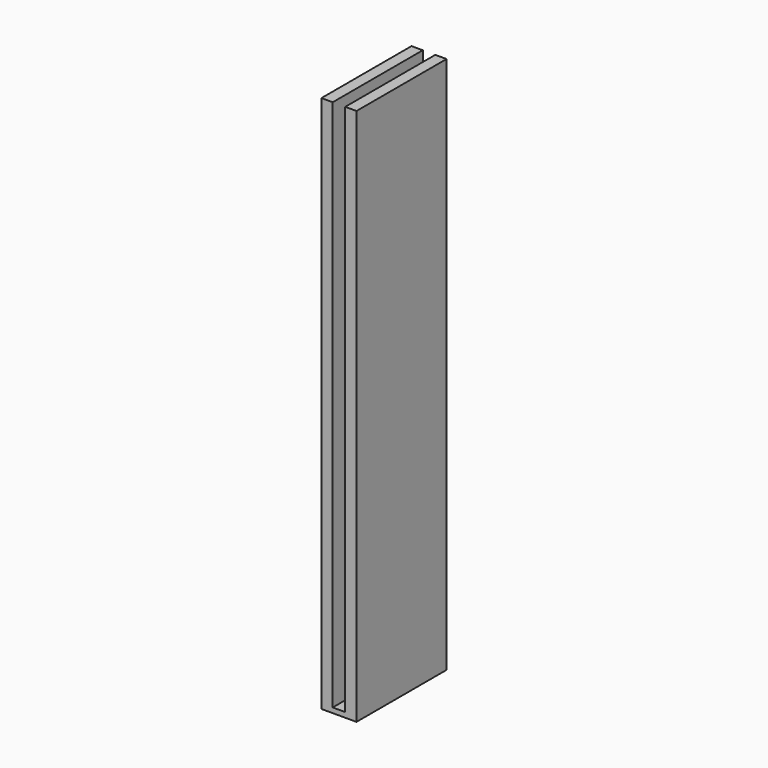
from build123d import *

# Parameters (mm, degrees)
F0_W          = 45
F0_H          = 215
F1_DEPTH      = 7
F1_DEPTH_BACK = 7
F2_W          = 5
F2_H          = 213
F3_DEPTH      = 70
F3_DEPTH_BACK = 25


with BuildPart() as f1:
    # F0 (on Right) → F1 (new body, two sides)
    with BuildSketch(Plane.YZ) as f1_sk:
        with Locations((8.797029, 77.318066)):
            Rectangle(F0_W, F0_H)
    extrude(amount=F1_DEPTH)
    extrude(f1_sk.sketch, amount=-F1_DEPTH_BACK)

    # F2 (on face) → F3 (cut, two sides)
    with BuildSketch(Plane.XZ.offset(13.702971)) as f3_sk:
        with Locations((0, 78.318066)):
            Rectangle(F2_W, F2_H)
    extrude(amount=-F3_DEPTH, mode=Mode.SUBTRACT)
    extrude(f3_sk.sketch, amount=-F3_DEPTH_BACK, mode=Mode.SUBTRACT)


solid = f1.part
